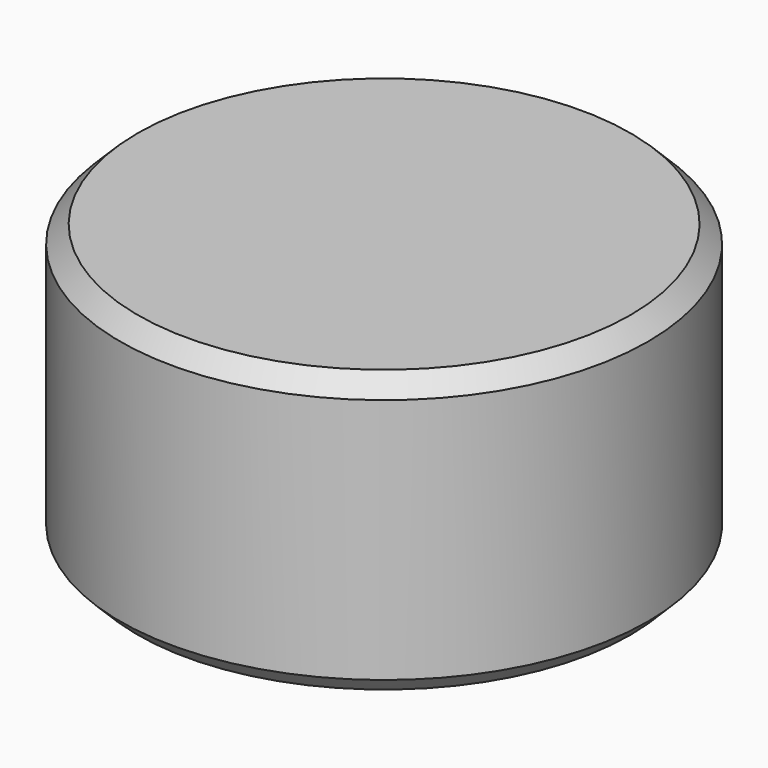
from build123d import *

# Parameters (mm, degrees)
CYLINDER052_R     = 30
CYLINDER052_DEPTH = 32
CHAMFER013_SIZE   = 2
CHAMFER012_SIZE   = 2


with BuildPart() as part:
    # Cylinder052 → Cylinder052 (join)
    with BuildSketch(Plane.XY.offset(-16)):
        Circle(CYLINDER052_R)
    extrude(amount=CYLINDER052_DEPTH)

    # Chamfer013
    chamfer013_edges = [part.edges().sort_by_distance(p)[0] for p in [
        (-30, 0, 16),
    ]]
    chamfer(chamfer013_edges, length=CHAMFER013_SIZE)

    # Chamfer012
    chamfer012_edges = [part.edges().sort_by_distance(p)[0] for p in [
        (-30, 0, -16),
    ]]
    chamfer(chamfer012_edges, length=CHAMFER012_SIZE)


solid = part.part
